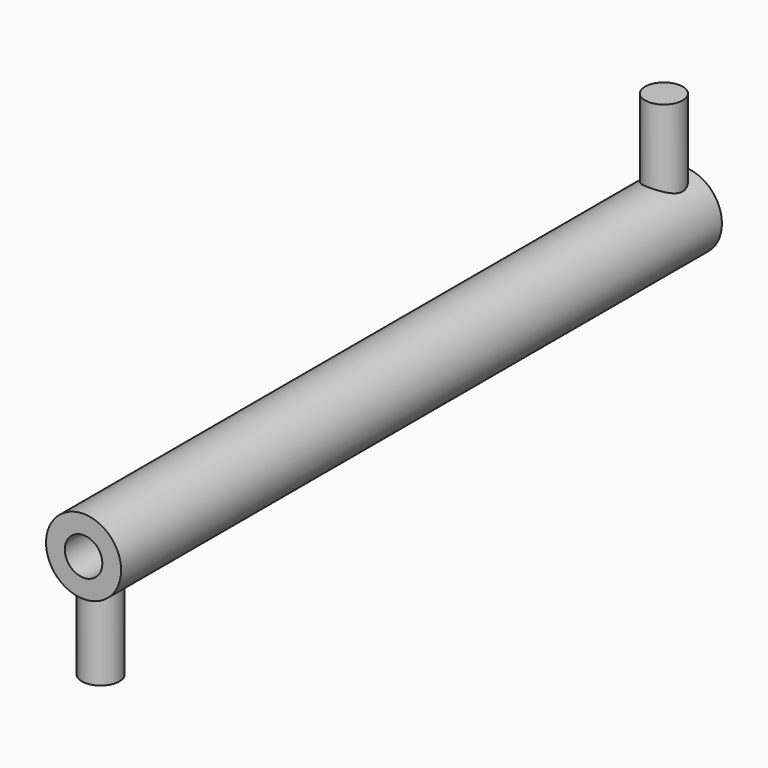
from build123d import *

# Parameters (mm, degrees)
F0_R     = 50
F0_R_2   = 25
F3_DEPTH = 1000
F4_R     = 25
F5_DEPTH = 125
F6_R     = 25
F7_DEPTH = 125


with BuildPart() as f3:
    # F0 (on Front) → F3 (new body)
    with BuildSketch(Plane.XZ):
        Circle(F0_R)
        Circle(F0_R_2, mode=Mode.SUBTRACT)
    extrude(amount=F3_DEPTH)

    # F4 (on offset) → F5 (join)
    with BuildSketch(Plane.XY.offset(-25)):
        with Locations((0, -971.540222)):
            Circle(F4_R)
    extrude(amount=-F5_DEPTH)

    # F6 (on offset) → F7 (join)
    with BuildSketch(Plane.XY.offset(25)):
        with Locations((0, -34.047124)):
            Circle(F6_R)
    extrude(amount=F7_DEPTH)


solid = f3.part
